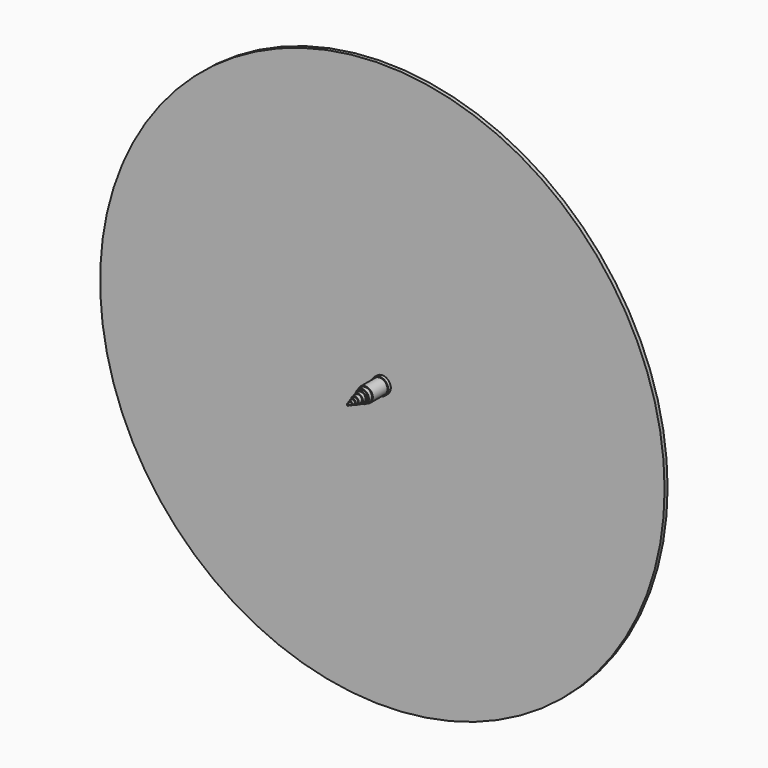
from build123d import *

# Parameters (mm, degrees)
F0_R      = 0.5
F2_DEPTH  = 25
F0_R_2    = 1
F0_R_3    = 0.55
F3_DEPTH  = 23.24375
F0_R_4    = 1.5
F0_R_5    = 1.05
F4_DEPTH  = 21.59889
F0_R_6    = 2
F0_R_7    = 1.55
F5_DEPTH  = 20.19996
F0_R_8    = 2.5
F0_R_9    = 2.05
F6_DEPTH  = 18.09357
F0_R_10   = 3
F0_R_11   = 2.55
F7_DEPTH  = 16.3101
F0_R_12   = 3.5
F0_R_13   = 3.05
F8_DEPTH  = 15.31986
F0_R_14   = 4
F0_R_15   = 3.55
F9_DEPTH  = 13.32929
F0_R_16   = 4.5
F0_R_17   = 4.05
F10_DEPTH = 3.67881
F1_R      = 150
F1_R_2    = 4.5
F11_DEPTH = 2


with BuildPart() as f2:
    # F0 (on Front) → F2 (new body)
    with BuildSketch(Plane.XZ):
        Circle(F0_R)
    extrude(amount=F2_DEPTH)


with BuildPart() as f3:
    # F0 (on Front) → F3 (new body)
    with BuildSketch(Plane.XZ):
        Circle(F0_R_2)
        Circle(F0_R_3, mode=Mode.SUBTRACT)
    extrude(amount=F3_DEPTH)


with BuildPart() as f4:
    # F0 (on Front) → F4 (new body)
    with BuildSketch(Plane.XZ):
        Circle(F0_R_4)
        Circle(F0_R_5, mode=Mode.SUBTRACT)
    extrude(amount=F4_DEPTH)


with BuildPart() as f5:
    # F0 (on Front) → F5 (new body)
    with BuildSketch(Plane.XZ):
        Circle(F0_R_6)
        Circle(F0_R_7, mode=Mode.SUBTRACT)
    extrude(amount=F5_DEPTH)


with BuildPart() as f6:
    # F0 (on Front) → F6 (new body)
    with BuildSketch(Plane.XZ):
        Circle(F0_R_8)
        Circle(F0_R_9, mode=Mode.SUBTRACT)
    extrude(amount=F6_DEPTH)


with BuildPart() as f7:
    # F0 (on Front) → F7 (new body)
    with BuildSketch(Plane.XZ):
        Circle(F0_R_10)
        Circle(F0_R_11, mode=Mode.SUBTRACT)
    extrude(amount=F7_DEPTH)


with BuildPart() as f8:
    # F0 (on Front) → F8 (new body)
    with BuildSketch(Plane.XZ):
        Circle(F0_R_12)
        Circle(F0_R_13, mode=Mode.SUBTRACT)
    extrude(amount=F8_DEPTH)


with BuildPart() as f9:
    # F0 (on Front) → F9 (new body)
    with BuildSketch(Plane.XZ):
        Circle(F0_R_14)
        Circle(F0_R_15, mode=Mode.SUBTRACT)
    extrude(amount=F9_DEPTH)


with BuildPart() as f10:
    # F0 (on Front) → F10 (new body)
    with BuildSketch(Plane.XZ):
        Circle(F0_R_16)
        Circle(F0_R_17, mode=Mode.SUBTRACT)
    extrude(amount=F10_DEPTH)

    # F1 (on Front) → F11 (join)
    with BuildSketch(Plane.XZ):
        Circle(F1_R)
        Circle(F1_R_2, mode=Mode.SUBTRACT)
    extrude(amount=F11_DEPTH)


solid = Compound([f2.part, f3.part, f4.part, f5.part, f6.part, f7.part, f8.part, f9.part, f10.part])
